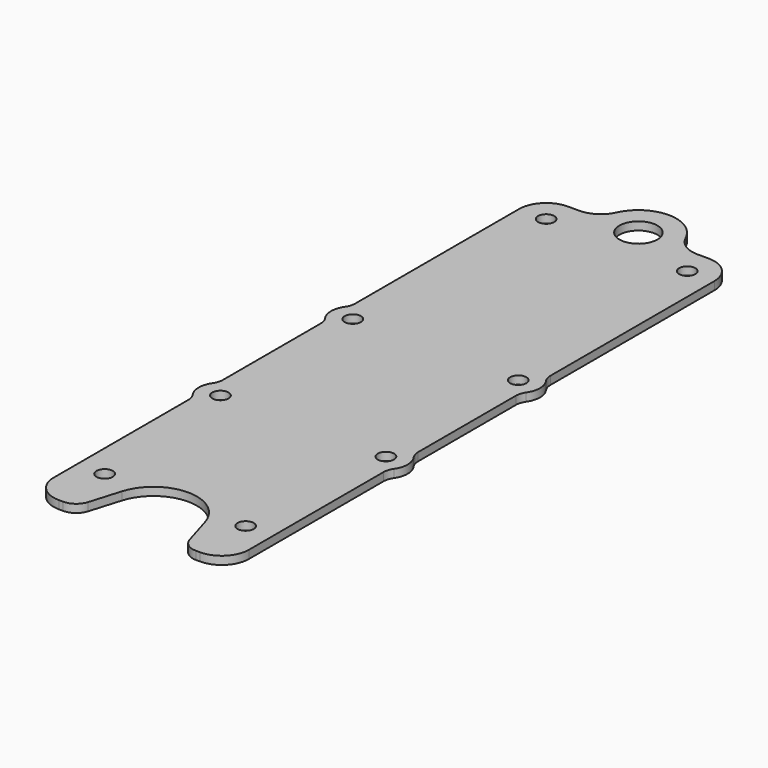
from build123d import *

# Parameters (mm, degrees)
F0_R     = 1.5
F0_R_2   = 3.5
F1_DEPTH = 1.5
F2_R     = 3


with BuildPart() as f1:
    # F0 (on Top) → F1 (new body)
    with BuildSketch(Plane.XY):
        with BuildLine():
            ThreePointArc((-13, 62), (-16.535534, 60.535534), (-18, 57))
            Line((-18, 57), (-18, 18.154738))
            ThreePointArc((-18, 18.154738), (-19.25, 15.25), (-18, 12.345262))
            Line((-18, 12.345262), (-18, -12.345262))
            ThreePointArc((-18, -12.345262), (-19.25, -15.25), (-18, -18.154738))
            Line((-18, -18.154738), (-18, -50.25))
            ThreePointArc((-18, -50.25), (-16.535534, -53.785534), (-13, -55.25))
            Line((-13, -55.25), (-10, -55.25))
            Line((-10, -55.25), (-7.663217, -47.453241))
            ThreePointArc((-7.663217, -47.453241), (0, -41.75), (7.663217, -47.453241))
            Line((7.663217, -47.453241), (10, -55.25))
            Line((10, -55.25), (13, -55.25))
            ThreePointArc((13, -55.25), (16.535534, -53.785534), (18, -50.25))
            Line((18, -50.25), (18, -18.154738))
            ThreePointArc((18, -18.154738), (19.25, -15.25), (18, -12.345262))
            Line((18, -12.345262), (18, 12.345262))
            ThreePointArc((18, 12.345262), (19.25, 15.25), (18, 18.154738))
            Line((18, 18.154738), (18, 57))
            ThreePointArc((18, 57), (16.535534, 60.535534), (13, 62))
            Line((13, 62), (10.908712, 62))
            ThreePointArc((10.908712, 62), (8.208403, 62.791873), (6.363415, 64.916667))
            ThreePointArc((6.363415, 64.916667), (0, 69), (-6.363415, 64.916667))
            ThreePointArc((-6.363415, 64.916667), (-8.208403, 62.791873), (-10.908712, 62))
            Line((-10.908712, 62), (-13, 62))
        make_face()
        with Locations((-13, -44.75)):
            Circle(F0_R, mode=Mode.SUBTRACT)
        with Locations((-15.25, -15.25)):
            Circle(F0_R, mode=Mode.SUBTRACT)
        with Locations((13, -44.75)):
            Circle(F0_R, mode=Mode.SUBTRACT)
        with Locations((15.25, -15.25)):
            Circle(F0_R, mode=Mode.SUBTRACT)
        with Locations((-15.25, 15.25)):
            Circle(F0_R, mode=Mode.SUBTRACT)
        with Locations((-13, 57)):
            Circle(F0_R, mode=Mode.SUBTRACT)
        with Locations((15.25, 15.25)):
            Circle(F0_R, mode=Mode.SUBTRACT)
        with Locations((0, 62)):
            Circle(F0_R_2, mode=Mode.SUBTRACT)
        with Locations((13, 57)):
            Circle(F0_R, mode=Mode.SUBTRACT)
    extrude(amount=F1_DEPTH)

    # F2
    f2_edges = [f1.edges().sort_by_distance(p)[0] for p in [
        (-18, 12.345262, 0.75),
        (-18, 18.154738, 0.75),
        (-18, -12.345262, 0.75),
        (-18, -18.154738, 0.75),
        (18, -18.154738, 0.75),
        (18, -12.345262, 0.75),
        (18, 12.345262, 0.75),
        (18, 18.154738, 0.75),
        (-10, -55.25, 0.75),
        (10, -55.25, 0.75),
    ]]
    fillet(f2_edges, radius=F2_R)


solid = f1.part
